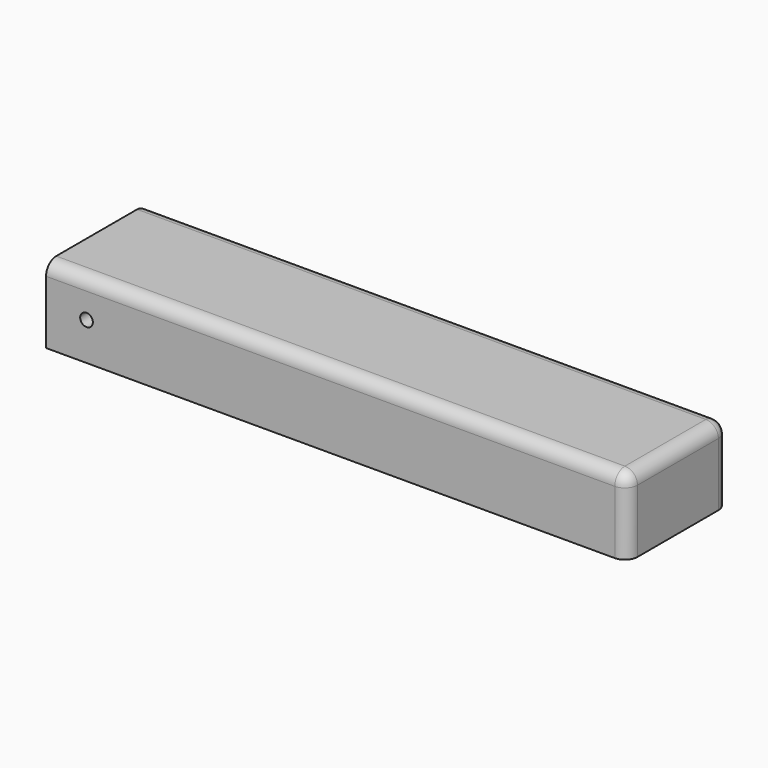
from build123d import *

# Parameters (mm, degrees)
F0_W     = 230
F0_H     = 50
F1_DEPTH = 30
F2_R     = 5
F4_DEPTH = 76.7
F5_R     = 2.5
F6_DEPTH = 21


with BuildPart() as f1:
    # F0 (on Top) → F1 (new body)
    with BuildSketch(Plane.XY):
        Rectangle(F0_W, F0_H)
    extrude(amount=F1_DEPTH)

    # F2
    f2_edges = [f1.edges().sort_by_distance(p)[0] for p in [
        (115, -25, 15),
        (115, 25, 15),
        (115, 0, 30),
        (0, 25, 30),
        (0, -25, 30),
    ]]
    fillet(f2_edges, radius=F2_R)

    # F3 (on face) → F4 (cut)
    with BuildSketch(Plane.XZ.offset(25)):
        with BuildLine():
            ThreePointArc((-96.5, 15), (-99, 17.5), (-101.5, 15))
            ThreePointArc((-101.5, 15), (-99, 12.5), (-96.5, 15))
        make_face()
    extrude(amount=-F4_DEPTH, mode=Mode.SUBTRACT)

    # F5 (on face) → F6 (cut)
    with BuildSketch(Plane(origin=(0, 0, 0), x_dir=(1, 0, 0), z_dir=(0, 0, -1))):
        with Locations((93.5, 0)):
            Circle(F5_R)
    extrude(amount=-F6_DEPTH, mode=Mode.SUBTRACT)


solid = f1.part
